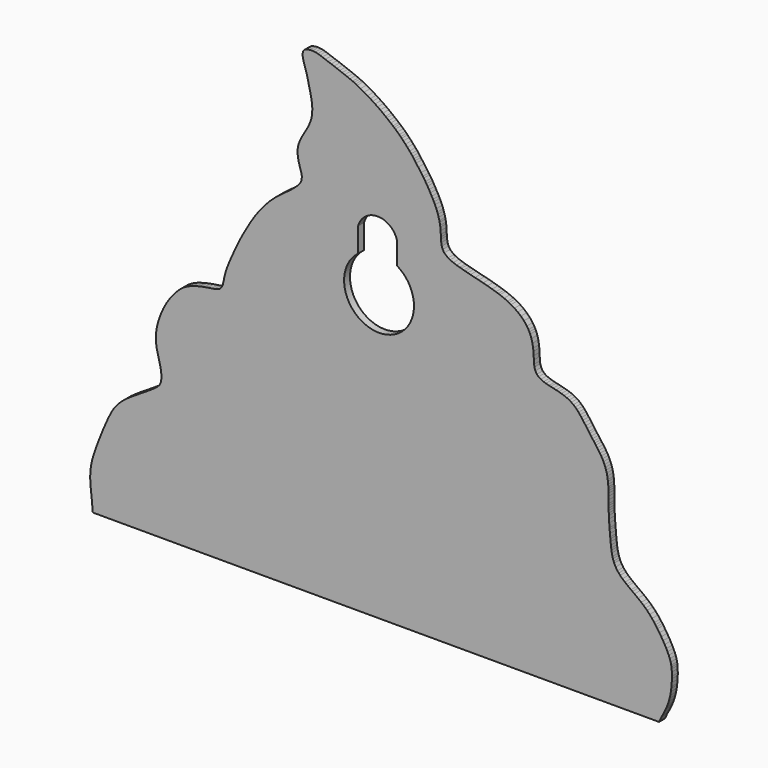
from build123d import *

# Parameters (mm, degrees)
F1_DEPTH = 0.1
F2_SCALE = 19
F5_DEPTH = 30


with BuildPart() as f1:
    # F0 (on Front) → F1 (new body)
    with BuildSketch(Plane.XZ):
        Polygon((-3.1530139461, 0.1996107107), (-3.1411342788, 0.1863066427), (-3.1035617624, 0.1864252233), (-3.0755462992, 0.186416706), (-3.0481106639, 0.1864025833), (-3.0072032526, 0.1862871624), (-2.9749483635, 0.186282925), (-2.9381539833, 0.1862686252), (-2.916650693, 0.1862627272), (-2.8942734456, 0.1862559512), (-2.8590210114, 0.1862451504), (-2.7715757607, 0.1862048077), (-2.7473197434, 0.1862031215), (-2.7153128881, 0.1862058304), (-2.6775643156, 0.1861723674), (-2.6364100484, 0.1861565066), (-2.5325582018, 0.1862380642), (-2.5097383714, 0.1862398542), (-2.4847909647, 0.1862276468), (-2.459439346, 0.1862212338), (-2.3476848267, 0.1860827667), (-2.3270341591, 0.1860919538), (-2.2965993917, 0.18606445), (-2.2659189503, 0.1860489586), (-2.2316249395, 0.1860358014), (-2.1927091715, 0.1860296785), (-2.1049577847, 0.18597538), (-2.0776792602, 0.185965754), (-1.9935940206, 0.1859276841), (-1.96398259, 0.1859261896), (-1.9429301278, 0.1859118597), (-1.9141630493, 0.1859119744), (-1.8208058584, 0.1859510633), (-1.7994544228, 0.1859447252), (-1.6851244144, 0.1858749658), (-1.6543405481, 0.1858650686), (-1.6238427, 0.1858532757), (-1.513172618, 0.1858391823), (-1.4912290537, 0.1858341258), (-1.4516678319, 0.1858119223), (-1.417929048, 0.1857845122), (-1.320679043, 0.1857246075), (-1.3004572558, 0.1857325251), (-1.273167178, 0.1857173747), (-1.201492553, 0.1857165223), (-1.179049731, 0.1857147435), (-1.1474988673, 0.1857047383), (-1.1263548274, 0.1856983786), (-1.1012651716, 0.1856925892), (-1.0181523101, 0.1856591818), (-0.9847266396, 0.1856492369), (-0.9528742414, 0.1856406325), (-0.8324771556, 0.1856586962), (-0.7111926529, 0.1856533466), (-0.6873969094, 0.1856441098), (-0.662915352, 0.1856394817), (-0.5541448954, 0.185590802), (-0.436723513, 0.185481904), (-0.4058593031, 0.1854753084), (-0.3797577648, 0.1854627584), (-0.2879604377, 0.1855073358), (-0.2546820457, 0.1854949358), (-0.1589213835, 0.1854066255), (-0.1368413212, 0.1853974077), (-0.1117509853, 0.1853886964), (-0.0131593949, 0.1853700316), (0.011738969, 0.1853700228), (0.0327154784, 0.1853688145), (0.1294722386, 0.1852577484), (0.152888732, 0.1852413408), (0.2484575186, 0.185346568), (0.2699259475, 0.1853448757), (0.3619392148, 0.1851542876), (0.4109975093, 0.1851507599), (0.4413403542, 0.1851388206), (0.4701919245, 0.1851288282), (0.542988959, 0.1851756926), (0.6016427472, 0.1851870563), (0.6384320981, 0.1851767194), (0.7335680469, 0.1850374462), (0.7540797481, 0.1850481666), (0.8520941451, 0.1850963813), (0.878437915, 0.1850929888), (0.9679484436, 0.1849666494), (0.9984728569, 0.1849774682), (1.0198653585, 0.1849755558), (1.0417884697, 0.1849657382), (1.0673726731, 0.1849569964), (1.0895379487, 0.1849522137), (1.1119064306, 0.1849433971), (1.2215055699, 0.184973653), (1.3240042967, 0.1849312002), (1.3523420414, 0.1849319934), (1.4525917408, 0.1848783465), (1.4731179427, 0.1848708809), (1.5548141313, 0.184787995), (1.5774829469, 0.1847813265), (1.6139520984, 0.1847703777), (1.6350510169, 0.1847637818), (1.7045982761, 0.1847451471), (1.7336298532, 0.1847513888), (1.7584125587, 0.184754232), (1.8118344092, 0.1847510241), (1.8928113916, 0.1846834783), (1.9146711028, 0.1846681428), (1.9410580462, 0.184664533), (1.9722426152, 0.1846534529), (2.030679629, 0.1846697989), (2.0624462006, 0.1846638037), (2.0870424424, 0.1846560969), (2.1219602852, 0.1846844569), (2.1618309256, 0.1846562489), (2.1956786012, 0.1845977164), (2.2210855345, 0.1845918588), (2.306544861, 0.1846097818), (2.3359430521, 0.1846069053), (2.3585427581, 0.1846016038), (2.3809236076, 0.184592586), (2.4514070073, 0.1845485324), (2.4739807773, 0.1845443806), (2.4965148671, 0.1845166175), (2.5239915428, 0.1845202622), (2.5577973033, 0.1845094698), (2.6574276191, 0.1844789989), (2.6876399024, 0.1844633623), (2.8086423178, 0.1843995346), (2.8311583719, 0.1843963218), (2.8595233459, 0.184385999), (2.8926659873, 0.1843789611), (2.9177335358, 0.1843711057), (2.9459177302, 0.1843566897), (3.0589738742, 0.1843826095), (3.0869273395, 0.1843801948), (3.1086471775, 0.1843702885), (3.1301106695, 0.1843633401), (3.2418638861, 0.1842789868), (3.2644873535, 0.1842730561), (3.2861338252, 0.1842563387), (3.3074193254, 0.1842377321), (3.3285468751, 0.1842316407), (3.3497234421, 0.1842266923), (3.3710593614, 0.1842208492), (3.3946808908, 0.1842234219), (3.4168545713, 0.1842134086), (3.5226985912, 0.1841436953), (3.5595321566, 0.1841374905), (3.5852357129, 0.1841144359), (3.6178604317, 0.184104909), (3.64223068, 0.184102092), (3.6723678504, 0.1840915585), (3.817907729, 0.1842240095), (3.8414708879, 0.1842171015), (3.992974724, 0.1839585267), (4.0260986749, 0.1839656193), (4.055471904, 0.1839641192), (4.0804636593, 0.1839642888), (4.1086816486, 0.1839546595), (4.136364251, 0.1839425828), (4.2607072277, 0.1840526604), (4.370194661, 0.1838217903), (4.4134933301, 0.1838122765), (4.4662516752, 0.1838188936), (4.4892451065, 0.1838159186), (4.5098450866, 0.1837958519), (4.5493060132, 0.1838560553), (4.5722121906, 0.1838574107), (4.5834781082, 0.2066891822), (4.6021980138, 0.2483286921), (4.6135461054, 0.2686373926), (4.6237808658, 0.2870112942), (4.6438113441, 0.3253099418), (4.662338766, 0.3640492903), (4.6708068267, 0.3836259639), (4.679748253, 0.4038508391), (4.6894791354, 0.4295410192), (4.7051250432, 0.474285441), (4.7169593612, 0.5162790622), (4.7254859547, 0.5545261915), (4.7337955688, 0.6015917622), (4.7390727896, 0.6416021039), (4.7412655158, 0.6631103232), (4.7452072385, 0.7113850874), (4.7473938787, 0.7581177808), (4.7478950994, 0.7892521683), (4.7469074687, 0.8400233502), (4.7442232096, 0.8777276029), (4.7416743088, 0.897631004), (4.7386783273, 0.9188595495), (4.7306680049, 0.9548937819), (4.719395987, 0.9918443806), (4.7045892356, 1.0286436388), (4.6875780404, 1.0650858036), (4.6717263023, 1.0967411928), (4.6491933707, 1.1386744519), (4.6269577407, 1.1774118954), (4.6028174553, 1.2168641262), (4.5772802711, 1.2565877164), (4.5506218449, 1.2958880761), (4.5373157238, 1.3145348626), (4.5231658587, 1.3344729811), (4.5071356679, 1.3559652605), (4.4760231878, 1.3953982444), (4.4434801056, 1.4329714511), (4.4083280593, 1.4697155599), (4.3866719482, 1.4906980476), (4.3591958379, 1.5158506073), (4.3295777569, 1.5404306272), (4.2854480937, 1.5754935393), (4.2376771373, 1.6116082825), (4.2096551189, 1.632459053), (4.1900249979, 1.6469303217), (4.1476551832, 1.678610132), (4.129665821, 1.6928298452), (4.1069380948, 1.71063976), (4.0733117942, 1.7399738279), (4.0418416894, 1.7705162166), (4.0222362496, 1.7930941822), (4.0052676855, 1.8135055653), (3.9808568299, 1.8508341516), (3.9609019074, 1.8902626763), (3.9527192493, 1.9130509061), (3.9433819552, 1.939476062), (3.9369542893, 1.9644418914), (3.9285647652, 2.0023653467), (3.9232552617, 2.034542472), (3.9200432441, 2.0586838897), (3.9159294366, 2.0936240555), (3.9115920769, 2.1326252887), (3.908404296, 2.1655766144), (3.906641827, 2.1881354652), (3.9030674108, 2.2285125004), (3.8990173755, 2.2738129089), (3.8972502295, 2.2967402962), (3.8931803271, 2.3514943773), (3.8901117327, 2.3977347771), (3.8879587478, 2.4382599384), (3.8868272578, 2.4690820231), (3.8858765779, 2.4985980921), (3.885321585, 2.525717461), (3.8848974437, 2.5562575741), (3.8848028659, 2.5809183051), (3.8845876972, 2.625614424), (3.884242275, 2.6689690794), (3.88368681, 2.705198572), (3.8830259543, 2.734607562), (3.8819824992, 2.7596439444), (3.8808516776, 2.780861064), (3.8786959774, 2.8103358543), (3.8753471129, 2.8440762054), (3.872546308, 2.8657762804), (3.8662306722, 2.9048734955), (3.8588096641, 2.9406167612), (3.8499819467, 2.9728229902), (3.8398861965, 3.0034855308), (3.8281963952, 3.0333344797), (3.8149190009, 3.0626773078), (3.8001601457, 3.0913580153), (3.7838838575, 3.1194914367), (3.7665851051, 3.1470110601), (3.7485317557, 3.1738467914), (3.729914319, 3.2000491385), (3.710446115, 3.2262762433), (3.6959169894, 3.2459381835), (3.6816545536, 3.2648911255), (3.6646630524, 3.2881268552), (3.6467159427, 3.3127110424), (3.6258711335, 3.3410233404), (3.6135064117, 3.3577166943), (3.5925131106, 3.3869359433), (3.5730724663, 3.414469312), (3.5536861104, 3.4417165377), (3.5342633293, 3.4683351354), (3.5147588621, 3.4945548253), (3.4947212852, 3.5199727703), (3.473842669, 3.5448355776), (3.4519484107, 3.5685348175), (3.4287540697, 3.5911059238), (3.4036373747, 3.6122007485), (3.3765015587, 3.6318203808), (3.3469042805, 3.6496729316), (3.3144315053, 3.6657154109), (3.2788884451, 3.6800965285), (3.2407474059, 3.6928030209), (3.2038349195, 3.7031208509), (3.1666997606, 3.7125295215), (3.1297345312, 3.7213052363), (3.0932393773, 3.7295876824), (3.0709302468, 3.7350930882), (3.0295318269, 3.7462230083), (2.9986805797, 3.7563890995), (2.9604224814, 3.7730079308), (2.9297633295, 3.7926698486), (2.9065056768, 3.8157775746), (2.8860303781, 3.8495067047), (2.8732171387, 3.8899641963), (2.8693636961, 3.9235829832), (2.8651938144, 3.973861861), (2.8629021189, 4.0243335856), (2.859656923, 4.0754037139), (2.8553611076, 4.1133355178), (2.8460163584, 4.1697016569), (2.8323100376, 4.2219702325), (2.8145393985, 4.2686569878), (2.8033434806, 4.2913208074), (2.7909474109, 4.3154353031), (2.7692252943, 4.3498937444), (2.7306071432, 4.4003059346), (2.688270496, 4.4423583714), (2.6448137767, 4.4780810345), (2.6006590831, 4.5092200932), (2.5542916435, 4.5374045358), (2.5261323172, 4.5522908595), (2.5055203444, 4.5625467515), (2.4586662978, 4.5832459517), (2.4015133308, 4.6052583629), (2.3787535596, 4.6131671847), (2.3468018111, 4.6239015672), (2.2962328212, 4.6394411522), (2.231990414, 4.657836034), (2.1731254731, 4.673516416), (2.1136954237, 4.6887839244), (2.0610153227, 4.7018011934), (2.0006731682, 4.7168717801), (1.9631799435, 4.7262484358), (1.9306136293, 4.7349166802), (1.9086489312, 4.7410772366), (1.8751963286, 4.7510607916), (1.8534000979, 4.7566476025), (1.8113506129, 4.7693570435), (1.7662259855, 4.7856526694), (1.7238696185, 4.804099949), (1.696159057, 4.818897711), (1.6442408154, 4.8615062773), (1.622619256, 4.8950784381), (1.6098867626, 4.9319560143), (1.6028628414, 4.9719037951), (1.5994248633, 5.0134060652), (1.5978082516, 5.0385934324), (1.5965661117, 5.0688763913), (1.5940496702, 5.1119156164), (1.589995959, 5.1535312384), (1.5870987587, 5.1737047051), (1.5807909283, 5.2086002777), (1.5767983438, 5.2288216448), (1.5673189848, 5.2639286704), (1.5572267158, 5.2965346069), (1.5493934321, 5.3204904525), (1.5347848718, 5.3577527012), (1.5165482331, 5.3989960564), (1.503163879, 5.4283396545), (1.4901516854, 5.4549289052), (1.4727619158, 5.4865004053), (1.4535388122, 5.521157602), (1.4353668594, 5.5540470852), (1.4155742217, 5.5883324743), (1.4003927284, 5.6132360015), (1.3863337742, 5.6351388949), (1.36335805, 5.6683886418), (1.3513409776, 5.6860541299), (1.3268434612, 5.7213511661), (1.2884768439, 5.7754154871), (1.2602491353, 5.8142766192), (1.2437420784, 5.837618959), (1.2295721915, 5.8566991987), (1.2111304057, 5.8810398915), (1.192926175, 5.9050128677), (1.1710301862, 5.9305588039), (1.139894122, 5.9659779183), (1.1146032601, 5.9940797197), (1.0857039249, 6.0247287334), (1.0625501389, 6.0490619196), (1.0482891575, 6.0639595907), (1.0299970077, 6.0822455416), (1.0045310863, 6.105193444), (0.9761837489, 6.1302910468), (0.9586681037, 6.1452103801), (0.9427073382, 6.15853573), (0.9138636078, 6.1828370544), (0.8870279682, 6.2048942173), (0.858966864, 6.2276066033), (0.842492508, 6.2405844625), (0.8071806817, 6.2675527808), (0.7709318458, 6.2943738238), (0.7349134342, 6.319852144), (0.7006020955, 6.3428930224), (0.6672916115, 6.364638072), (0.6346855009, 6.3855008434), (0.5975264378, 6.4086324441), (0.5513302642, 6.4357591732), (0.5022974351, 6.4632245915), (0.456418014, 6.487292482), (0.4366597282, 6.4968979868), (0.4144678327, 6.5075366439), (0.393600627, 6.5165071986), (0.3568962599, 6.5318192653), (0.3215875591, 6.5460536975), (0.2863432368, 6.5597425176), (0.2512218578, 6.5728326209), (0.2154999238, 6.586134069), (0.178668331, 6.6002460401), (0.1409364087, 6.6147059476), (0.1029745559, 6.6284069631), (0.0636143128, 6.642257836), (0.0215285536, 6.6572402416), (-0.019090128, 6.6718218275), (-0.0525064862, 6.6837050684), (-0.0820340164, 6.6925159853), (-0.1146609983, 6.6999452106), (-0.1513694461, 6.7037055409), (-0.1921809571, 6.7017241015), (-0.2287920508, 6.6946657829), (-0.2596442164, 6.6818604829), (-0.2806881901, 6.6569619992), (-0.288173175, 6.6239791073), (-0.2868204199, 6.5960967395), (-0.2771873446, 6.5484469467), (-0.2654020372, 6.5107071712), (-0.2546675092, 6.4750113878), (-0.2439168574, 6.4395462665), (-0.2350781243, 6.4105963301), (-0.2255040639, 6.376568888), (-0.2196489588, 6.3514030382), (-0.2134730745, 6.3258559893), (-0.2041683216, 6.2855931168), (-0.1942990446, 6.2448723091), (-0.1844002932, 6.2032794761), (-0.175107081, 6.160309493), (-0.1669944969, 6.1168891076), (-0.1612110653, 6.0828304357), (-0.1566293555, 6.0397493614), (-0.1556626685, 5.9920144978), (-0.1583778815, 5.9504988185), (-0.16020718, 5.9273543886), (-0.1638135779, 5.9056382453), (-0.1718259184, 5.871745087), (-0.1847090589, 5.8361051269), (-0.205709578, 5.7861171564), (-0.2197576123, 5.7601479189), (-0.2318554649, 5.7377231279), (-0.2451555996, 5.7148439206), (-0.2637182263, 5.6836613721), (-0.2879692943, 5.6405227932), (-0.3033679789, 5.612941352), (-0.31755558, 5.5842680572), (-0.3280477718, 5.5605824723), (-0.3367014974, 5.5384203792), (-0.3440061338, 5.515314579), (-0.3532432833, 5.4733803378), (-0.3564588199, 5.4383408671), (-0.3556946304, 5.4012985301), (-0.3517064377, 5.3637663889), (-0.3465739459, 5.3360061484), (-0.3397547766, 5.3058519748), (-0.3342469481, 5.2857153528), (-0.3242416692, 5.2518776172), (-0.3122656764, 5.2124100828), (-0.3022165089, 5.1767077427), (-0.2974154733, 5.1416205579), (-0.3007271457, 5.1169975391), (-0.306036248, 5.0896681865), (-0.3250350358, 5.0531169484), (-0.3500793252, 5.0241700864), (-0.3794792885, 4.9981971418), (-0.4078509987, 4.9726719847), (-0.4441336295, 4.9420741588), (-0.4623071571, 4.9282169861), (-0.4790838407, 4.9157250592), (-0.5100332385, 4.8933207533), (-0.5283387096, 4.8796731227), (-0.5572964812, 4.8586195341), (-0.5958361457, 4.8296504022), (-0.6341941576, 4.7992481354), (-0.6721314794, 4.7672106669), (-0.69719426, 4.7448798979), (-0.7284678041, 4.7152848517), (-0.7445456932, 4.6991823355), (-0.7640007699, 4.6786569661), (-0.7817277956, 4.6605616625), (-0.8022274195, 4.6372899563), (-0.8186247473, 4.6195339593), (-0.8383338481, 4.5955612267), (-0.8539727868, 4.5771716747), (-0.8726038184, 4.5528769794), (-0.8877567413, 4.5338110033), (-0.9062253018, 4.5082758414), (-0.9199494663, 4.4898381563), (-0.9319418668, 4.4726722158), (-0.9505462064, 4.4454708822), (-0.9713442014, 4.4128952516), (-1.0050623359, 4.3586264515), (-1.035064454, 4.3077792515), (-1.0596422281, 4.2649855829), (-1.0811968064, 4.2272356788), (-1.092851636, 4.2064715755), (-1.1087545119, 4.178017089), (-1.1329929639, 4.132865963), (-1.15579929, 4.0879537519), (-1.1763971867, 4.0453133991), (-1.195375517, 4.0046076133), (-1.2062467066, 3.9809005419), (-1.2264250429, 3.9368239112), (-1.2454904841, 3.895027988), (-1.2645511931, 3.8522854885), (-1.2867936028, 3.8012722567), (-1.3033702916, 3.7604160576), (-1.3178986224, 3.7216989681), (-1.3301637087, 3.6857901325), (-1.3404558748, 3.6522739044), (-1.3490194792, 3.6201754988), (-1.3562714726, 3.5884676332), (-1.362628519, 3.5567966312), (-1.366918886, 3.5366205204), (-1.3766466412, 3.4959602223), (-1.3907584946, 3.4616554556), (-1.4131744194, 3.4365638934), (-1.4477042707, 3.4198900452), (-1.4915717773, 3.4097903439), (-1.5246062599, 3.4048161918), (-1.58166331, 3.3962120849), (-1.6257172714, 3.3886070729), (-1.6692944288, 3.3796550869), (-1.6948915016, 3.3741616318), (-1.7294284526, 3.365281115), (-1.7801696583, 3.3501386848), (-1.8186790094, 3.3362121397), (-1.8542027086, 3.3210113231), (-1.8851422857, 3.3052338077), (-1.9125668585, 3.2884397477), (-1.9389208895, 3.2693403711), (-1.9622121854, 3.2498132433), (-1.984533901, 3.2292745999), (-2.0061978091, 3.2075112025), (-2.0273899122, 3.1848986614), (-2.0406222348, 3.1697953146), (-2.0649477591, 3.1406718123), (-2.0790188429, 3.122723209), (-2.1089919986, 3.0814683635), (-2.1283623694, 3.0520752804), (-2.1451993446, 3.0246960127), (-2.1608950565, 2.9975392889), (-2.173701398, 2.9735224098), (-2.1898200075, 2.9414693026), (-2.2036215452, 2.9115521459), (-2.2167927853, 2.8805681093), (-2.2295780009, 2.8482036459), (-2.2418408887, 2.81451718), (-2.2483680846, 2.794378918), (-2.2566757382, 2.7669942902), (-2.263176799, 2.7444369602), (-2.2719119839, 2.7085017416), (-2.2791066446, 2.6723265437), (-2.2844516495, 2.6359771667), (-2.2878899068, 2.599936119), (-2.2891293065, 2.5639982872), (-2.2881492987, 2.5283532674), (-2.2848806853, 2.4927964195), (-2.2796408469, 2.4570680233), (-2.2723772888, 2.4211145874), (-2.2638608261, 2.3844630326), (-2.2535272015, 2.3444027015), (-2.24404723, 2.3082300659), (-2.2341707955, 2.2687840778), (-2.2254177788, 2.2286022246), (-2.2184477901, 2.1884406489), (-2.2140839211, 2.1489815016), (-2.2129140661, 2.1111844856), (-2.2145907312, 2.0888487188), (-2.2193223764, 2.0602163572), (-2.226228809, 2.0366128786), (-2.2416172435, 2.0098254374), (-2.2611569267, 1.9884682243), (-2.2851334108, 1.9680207845), (-2.3116370341, 1.9484040192), (-2.3285925489, 1.9369670181), (-2.359206282, 1.9163934886), (-2.3943832123, 1.8934486346), (-2.4117239095, 1.8822063756), (-2.4324523622, 1.868933153), (-2.4750316792, 1.8417126811), (-2.520215942, 1.813090101), (-2.5435946093, 1.7982563822), (-2.5608640977, 1.7873654155), (-2.5796838034, 1.775432858), (-2.6075714583, 1.7573553869), (-2.6389334496, 1.7361148419), (-2.656966605, 1.7242657866), (-2.707591753, 1.6876166266), (-2.7605004547, 1.6437651864), (-2.8053828873, 1.59953768), (-2.8368618883, 1.5620258979), (-2.8640641814, 1.5236789899), (-2.8881585344, 1.4841940845), (-2.9098548546, 1.4444860542), (-2.9287001571, 1.4067682364), (-2.9464862676, 1.3691932802), (-2.9629527736, 1.3330816111), (-2.9786773707, 1.2973510733), (-2.9938064173, 1.2621452227), (-3.0084819112, 1.2271301705), (-3.0229913515, 1.1917061157), (-3.0370818322, 1.1564935554), (-3.0510801099, 1.1211186726), (-3.0649166255, 1.0853840982), (-3.0788330391, 1.049256166), (-3.0925564739, 1.0124359592), (-3.1064341974, 0.9744966294), (-3.1204474062, 0.9348942766), (-3.1323621796, 0.8991522071), (-3.1444477093, 0.8605930659), (-3.1549123966, 0.8236145648), (-3.1638822553, 0.7865394576), (-3.167971909, 0.7666831815), (-3.1747625688, 0.7276830161), (-3.1796701916, 0.688965126), (-3.1826419246, 0.6506023919), (-3.1837437221, 0.6126708403), (-3.1834459878, 0.5749726698), (-3.1817796151, 0.5380243246), (-3.17938271, 0.5018014995), (-3.1761079674, 0.4648024867), (-3.1713899126, 0.4199933247), (-3.1683513669, 0.393553732), (-3.1639845412, 0.3558417519), (-3.1594764038, 0.314038266), (-3.1572629728, 0.2824762114), (-3.1553787882, 0.256157036), align=None)
    extrude(amount=-F1_DEPTH)


with BuildPart() as f1_1:
    # F2: moved
    add(f1.part.scale(F2_SCALE).moved(Location((-11.4917777656, -1.8, -3.3331809501))))

    # F4 (on offset) → F5 (cut)
    with BuildSketch(Plane.XZ.offset(25)):
        with BuildLine():
            ThreePointArc((-2.5830778974, 81.6185937116), (-1.209937009, 66.2811415089), (11.8907787904, 74.3739902973))
            ThreePointArc((11.8907787904, 74.3739902973), (10.7180684259, 78.829414856), (7.5038598958, 82.1301603963))
            ThreePointArc((7.5038598958, 82.1301603963), (2.3823903198, 83.4123740029), (-2.5830778974, 81.6185937116))
        make_face()
        with BuildLine():
            ThreePointArc((-2.5830778974, 81.6185937116), (2.3823903198, 83.4123740029), (7.5038598958, 82.1301603963))
            Line((7.5038598958, 82.1301603963), (7.5038598958, 87.9012236432))
            ThreePointArc((7.5038598958, 87.9012236432), (2.4605854453, 91.7573281131), (-2.5830778974, 87.9017323159))
            Line((-2.5830778974, 87.9017323159), (-2.5830778974, 81.6185937116))
        make_face()
    extrude(amount=-F5_DEPTH, mode=Mode.SUBTRACT)


solid = f1_1.part
